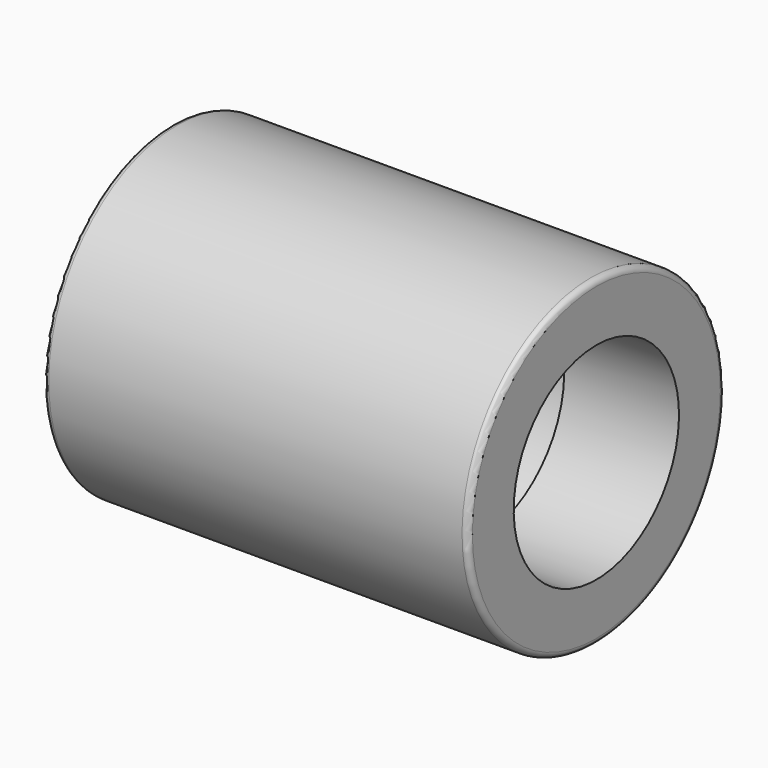
from build123d import *

# Parameters (mm, degrees)
F2_R = 0.5


with BuildPart() as f1:
    # F0 (on Front) → F1 (revolve)
    with BuildSketch(Plane.XZ):
        with BuildLine():
            Line((34.340206, 14), (-2.659794, 14))
            Line((-2.659794, 14), (-2.659794, 9))
            Line((-2.659794, 9), (7.340206, 9))
            Line((7.340206, 9), (7.340206, 10))
            ThreePointArc((7.340206, 10), (7.633099, 10.707107), (8.340206, 11))
            Line((8.340206, 11), (23.340206, 11))
            ThreePointArc((23.340206, 11), (24.047313, 10.707107), (24.340206, 10))
            Line((24.340206, 10), (24.340206, 9))
            Line((24.340206, 9), (34.340206, 9))
            Line((34.340206, 9), (34.340206, 14))
        make_face()
    revolve(axis=Axis((-0.122449, 0, 0), (1, 0, 0)))

    # F2
    f2_edges = [f1.edges().sort_by_distance(p)[0] for p in [
        (-2.659794, 0, -14),
        (34.340206, 0, -14),
    ]]
    fillet(f2_edges, radius=F2_R)


solid = f1.part
